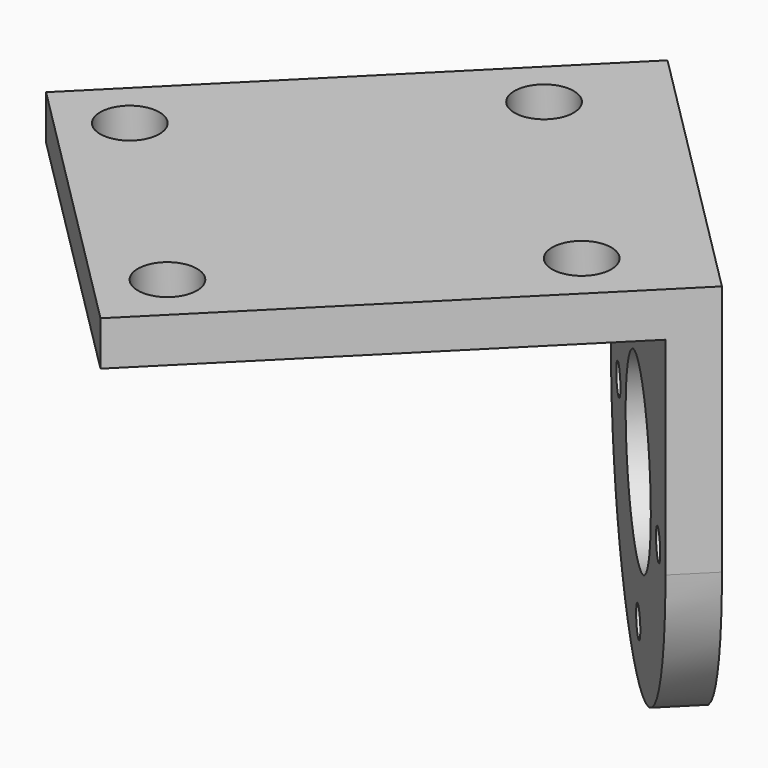
from build123d import *

# Parameters (mm, degrees)
SKETCH088_R             = 6
PAD064_DEPTH            = 3
SKETCH089_W             = 26
SKETCH089_H             = 3
PAD065_DEPTH            = 30
SKETCH090_R             = 2
POCKET032_DEPTH         = 30.001
SKETCH091_R             = 1
POCKET033_DEPTH         = 136.248276
POLARPATTERN013_COUNT   = 4
BODY039_PLACEMENT_ANGLE = 315


with BuildPart() as part:
    # Sketch088 → Pad064 (new body)
    with BuildSketch(Plane.XZ):
        with BuildLine():
            Line((-13, 17), (13, 17))
            Line((13, 17), (13, 0))
            ThreePointArc((-13, 0), (0, -13), (13, 0))
            Line((-13, 17), (-13, 0))
        make_face()
        Circle(SKETCH088_R, mode=Mode.SUBTRACT)
    extrude(amount=PAD064_DEPTH)

    # Sketch089 (on Face7 of Pad064) → Pad065 (join)
    with BuildSketch(Plane.XZ.offset(3)):
        with Locations((0, 15.5)):
            Rectangle(SKETCH089_W, SKETCH089_H)
    extrude(amount=PAD065_DEPTH)

    # Sketch090 (on Face5 of Pad065) → Pocket032 (cut, through all)
    with BuildSketch(Plane(origin=(0, 0, 17), x_dir=(-1, 0, 0), z_dir=(0, 0, 1))):
        with Locations((-9, 7)):
            Circle(SKETCH090_R)
        with Locations((9, 7)):
            Circle(SKETCH090_R)
        with Locations((-9, 29)):
            Circle(SKETCH090_R)
        with Locations((9, 29)):
            Circle(SKETCH090_R)
    extrude(amount=-POCKET032_DEPTH, mode=Mode.SUBTRACT)

    # Sketch091 (on Face4 of Pocket032) → Pocket033 (cut, through all)
    with BuildSketch(Plane(origin=(0, 0, 0), x_dir=(1, 0, 0), z_dir=(0, 1, 0))):
        with Locations((0, 9.5)):
            Circle(SKETCH091_R)
    pocket033 = extrude(amount=-POCKET033_DEPTH, mode=Mode.SUBTRACT)

    # PolarPattern013: Pocket033 ×4 about axis
    polarpattern013_axis = Axis((0, 0, 0), (0, 1, 0))
    for i in range(1, POLARPATTERN013_COUNT):
        add(pocket033.rotate(polarpattern013_axis, i * 360 / POLARPATTERN013_COUNT), mode=Mode.SUBTRACT)


with BuildPart() as part_1:
    # Body039 placement: moved
    add(part.part.moved(Location((53.719799, 53.720316, -7))).rotate(Axis((53.719799, 53.720316, -7), (0, 0, 1)), BODY039_PLACEMENT_ANGLE))


solid = part_1.part
